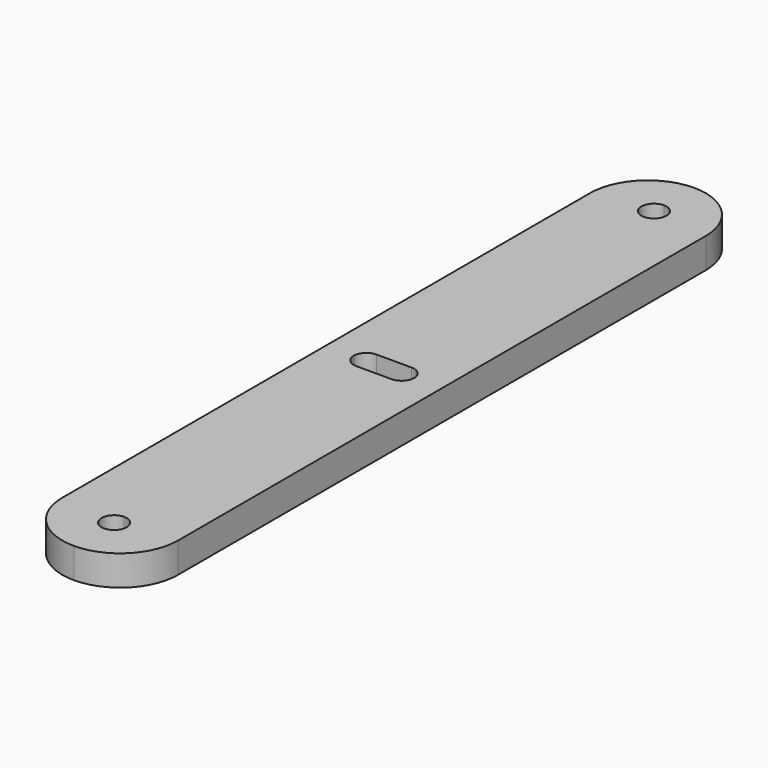
from build123d import *

# Parameters (mm, degrees)
F1_DEPTH = 3


with BuildPart() as f1:
    # F0 (on Top) → F1 (new body)
    with BuildSketch(Plane.XY):
        with BuildLine():
            Line((1.154214, 32.75), (1.154214, 0))
            Line((1.154214, 0), (3.904214, 0))
            ThreePointArc((3.904214, 0), (4.27033, 0.883883), (5.154214, 1.25))
            Line((5.154214, 1.25), (6.904214, 1.25))
            Line((6.904214, 1.25), (6.904214, 32.252756))
            ThreePointArc((6.904214, 32.252756), (5.65697, 33.5), (6.904214, 34.747244))
            Line((6.904214, 34.747244), (6.904214, 38.5))
            ThreePointArc((6.904214, 38.5), (2.83835, 36.815864), (1.154214, 32.75))
        make_face()
        with BuildLine():
            Line((3.904214, 0), (1.154214, 0))
            Line((1.154214, 0), (1.154214, -32.75))
            ThreePointArc((1.154214, -32.75), (2.83835, -36.815864), (6.904214, -38.5))
            Line((6.904214, -38.5), (6.904214, -34.747244))
            ThreePointArc((6.904214, -34.747244), (5.65697, -33.5), (6.904214, -32.252756))
            Line((6.904214, -32.252756), (6.904214, -1.25))
            Line((6.904214, -1.25), (5.154214, -1.25))
            ThreePointArc((5.154214, -1.25), (4.27033, -0.883883), (3.904214, 0))
        make_face()
        with BuildLine():
            ThreePointArc((12.654214, 32.75), (10.970078, 36.815864), (6.904214, 38.5))
            Line((6.904214, 38.5), (6.904214, 34.747244))
            ThreePointArc((6.904214, 34.747244), (7.786148, 34.381934), (8.151457, 33.5))
            ThreePointArc((8.151457, 33.5), (7.786148, 32.618066), (6.904214, 32.252756))
            Line((6.904214, 32.252756), (6.904214, 1.25))
            Line((6.904214, 1.25), (8.654214, 1.25))
            ThreePointArc((8.654214, 1.25), (9.538097, 0.883883), (9.904214, 0))
            Line((9.904214, 0), (12.654214, 0))
            Line((12.654214, 0), (12.654214, 32.75))
        make_face()
        with BuildLine():
            Line((6.904214, -34.747244), (6.904214, -38.5))
            ThreePointArc((6.904214, -38.5), (10.970078, -36.815864), (12.654214, -32.75))
            Line((12.654214, -32.75), (12.654214, 0))
            Line((12.654214, 0), (9.904214, 0))
            ThreePointArc((9.904214, 0), (9.538097, -0.883883), (8.654214, -1.25))
            Line((8.654214, -1.25), (6.904214, -1.25))
            Line((6.904214, -1.25), (6.904214, -32.252756))
            ThreePointArc((6.904214, -32.252756), (7.786148, -32.618066), (8.151457, -33.5))
            ThreePointArc((8.151457, -33.5), (7.786148, -34.381934), (6.904214, -34.747244))
        make_face()
    extrude(amount=F1_DEPTH)


solid = f1.part
